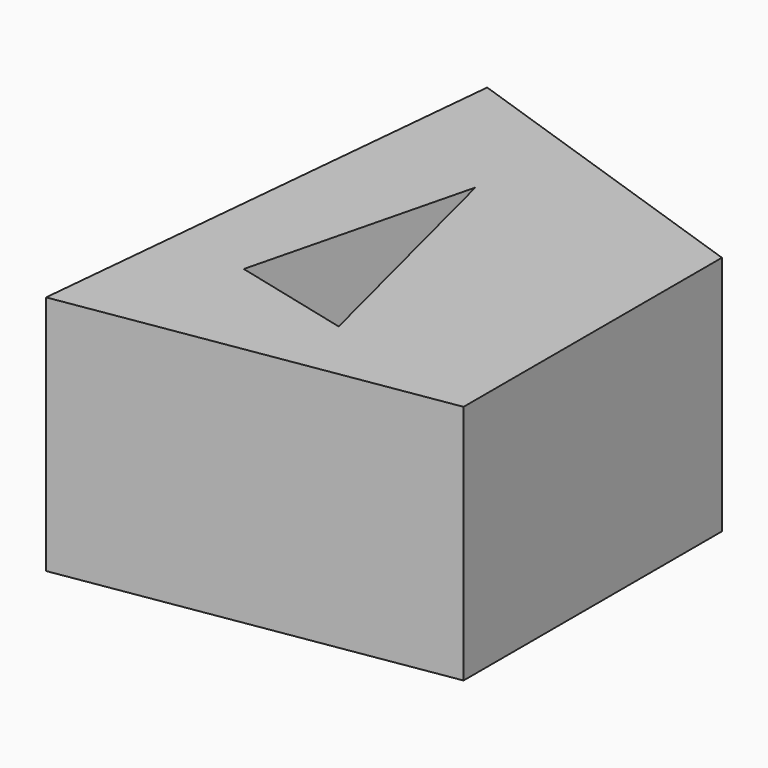
from build123d import *

# Parameters (mm, degrees)
F1_DEPTH = 25.4


with BuildPart() as f1:
    # F0 (on Top) → F1 (new body)
    with BuildSketch(Plane.XY):
        Polygon((-20.952431, -29.079724), (-54.999199, -17.453996), (-59.981655, -69.354557), (-20.952431, -63.12649), align=None)
        Polygon((-50.431952, -55.237599), (-44.619087, -31.986151), (-37.92697, -58.363846), align=None, mode=Mode.SUBTRACT)
    extrude(amount=F1_DEPTH)


solid = f1.part
